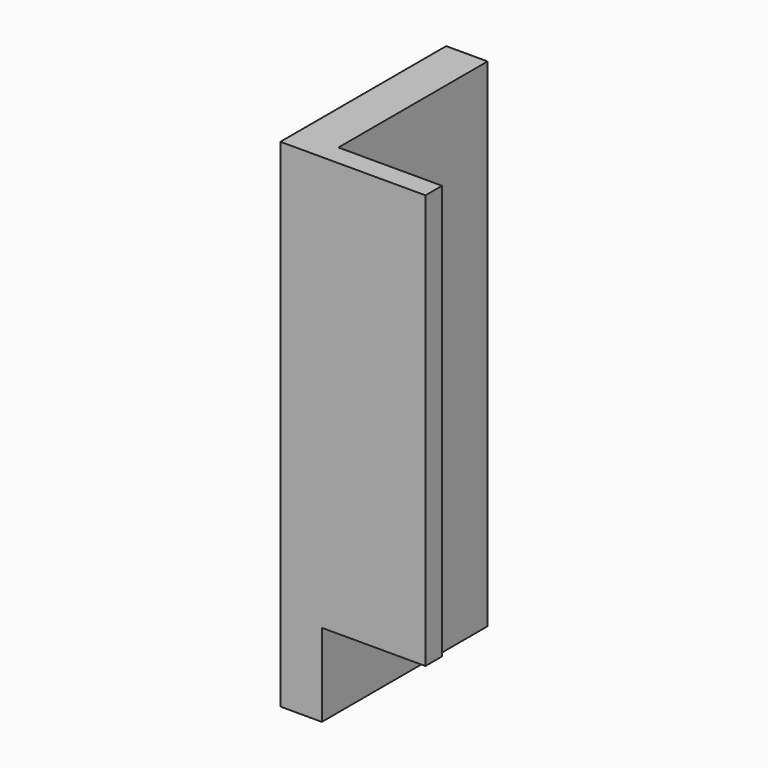
from build123d import *

# Parameters (mm, degrees)
F1_DEPTH = 304.8
F2_START = 50.8
F0_W     = 63.5
F0_H     = 12.7
F2_DEPTH = 254


with BuildPart() as f1:
    # F0 (on Top) → F1 (new body)
    with BuildSketch(Plane.XY):
        Polygon((0, 127), (0, 0), (25.4, 0), (25.4, 12.7), (25.4, 127), align=None)
    extrude(amount=F1_DEPTH)

    # F0 (on Top) → F2 (join)
    with BuildSketch(Plane.XY.offset(F2_START)):
        with Locations((57.15, 6.35)):
            Rectangle(F0_W, F0_H)
    extrude(amount=F2_DEPTH)


solid = f1.part
